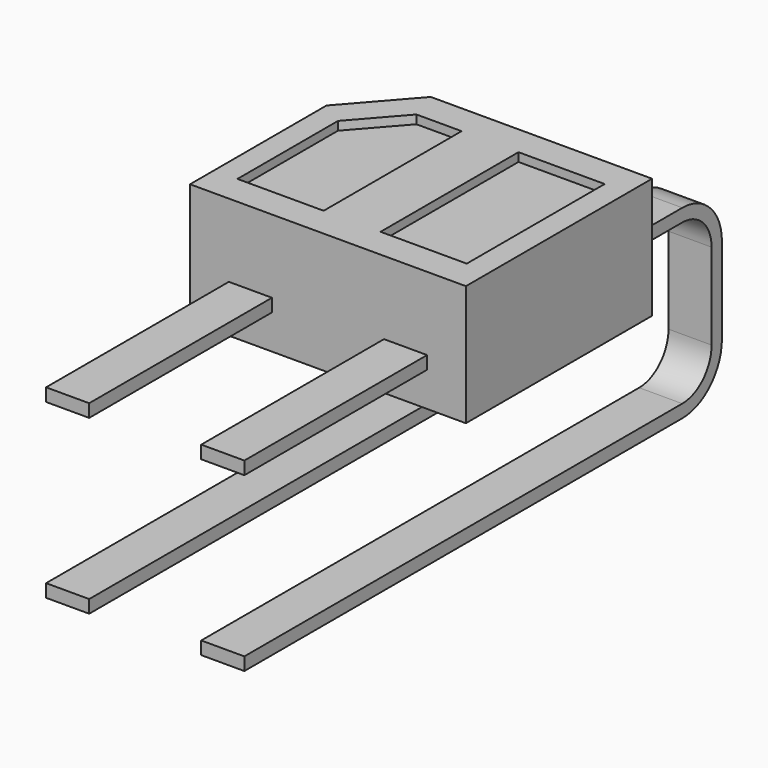
from build123d import *

# Parameters (mm, degrees)
F1_DEPTH = 1.4
F2_W     = 1
F2_H     = 2
F3_DEPTH = 0.1
F4_W     = 0.5
F4_H     = 0.15
F5_DEPTH = 4


with BuildPart() as f1:
    # F0 (on Top) → F1 (new body)
    with BuildSketch(Plane.XY):
        Polygon((1.6, -1.35), (1.6, 1.35), (-0.9672628953, 1.35), (-1.6, 0.628211031), (-1.6, -1.35), align=None)
    extrude(amount=F1_DEPTH)

    # F2 (on face) → F3 (cut)
    with BuildSketch(Plane.XY.offset(1.4)):
        with Locations((0.83, 0)):
            Rectangle(F2_W, F2_H)
        Polygon((-0.33, -1), (-0.33, 1), (-0.8539721624, 1), (-1.33, 0.4569756704), (-1.33, -1), align=None)
    extrude(amount=-F3_DEPTH, mode=Mode.SUBTRACT)

    # F6: F5 across plane


with BuildPart() as f5:
    # F4 (on Front) → F5 (new body)
    with BuildSketch(Plane.XZ):
        with Locations((-0.9, 0.475)):
            Rectangle(F4_W, F4_H)
    extrude(amount=F5_DEPTH)


with BuildPart() as f1_1:
    add(f1.part)
    add(f5.part.mirror(Plane.YZ))



with BuildPart() as f9:
    # F9: sweep along a path in F8
    with BuildLine(Plane.YZ.offset(-0.9)) as f9_path:
        Line((0, 0.475), (2.35, 0.475))
        ThreePointArc((2.35, 0.475), (2.7035533906, 0.3285533906), (2.85, -0.025))
        Line((2.85, -0.025), (2.85, -1.025))
        ThreePointArc((2.85, -1.025), (2.7035533906, -1.3785533906), (2.35, -1.525))
        Line((2.35, -1.525), (-4, -1.525))
    # F4 (on Front) → F9 (sweep)
    with BuildSketch(Plane.XZ):
        with Locations((-0.9, 0.475)):
            Rectangle(F4_W, F4_H)
    sweep(path=f9_path.line)


with BuildPart() as f1_2:
    add(f1_1.part)

    add(f5.part)  # F10 merges F5

    add(f9.part)  # F10 merges F9
    # F10: F9 across plane
    add(f9.part.mirror(Plane.YZ))


solid = f1_2.part
